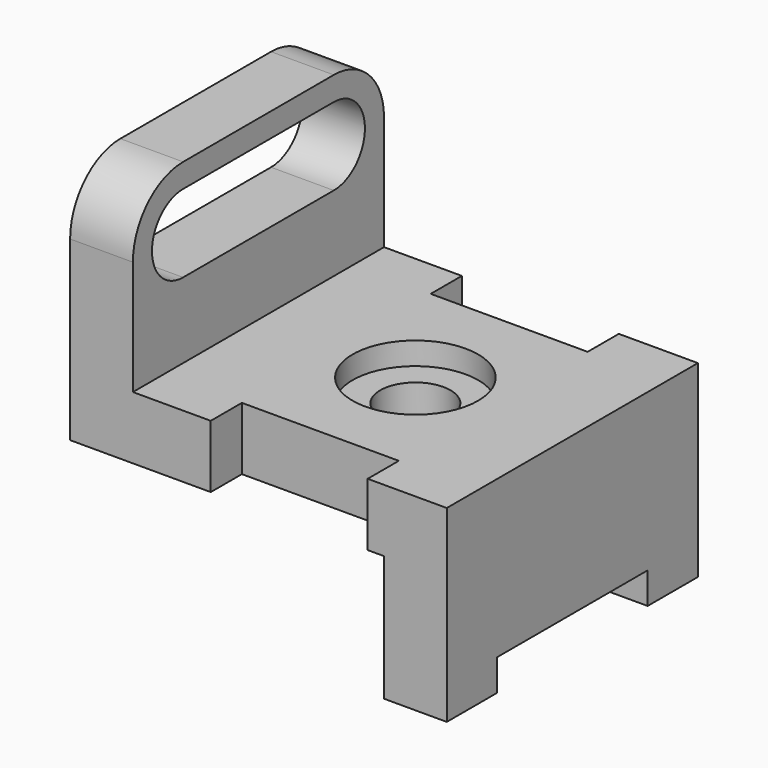
from build123d import *

# Parameters (mm, degrees)
F0_W      = 31.75
F0_H      = 12.7
F0_W_2    = 15.748
F1_DEPTH  = 63.5
F2_DEPTH  = 7.874
F3_START  = -55.626
F3_DEPTH  = 7.874
F4_W      = 38.1
F4_H      = 6.35
F5_DEPTH  = 25.4
F6_R      = 12.7
F6_R_2    = 7.112
F7_DEPTH  = 4.572
F8_DEPTH  = 25.4
F10_DEPTH = 25.4
F11_DEPTH = 25.4


with BuildPart() as f1:
    # F0 (on Front) → F1 (new body)
    with BuildSketch(Plane.XZ):
        Polygon((-12.7, 0), (0, 0), (0, 38.1), (-16.002, 38.1), (-16.002, 25.4), (-12.7, 25.4), align=None)
        with Locations((-31.877, 31.75)):
            Rectangle(F0_W, F0_H)
        with Locations((-55.626, 31.75)):
            Rectangle(F0_W_2, F0_H)
        Polygon((-63.5, 25.4), (-63.5, 38.1), (-63.5, 73.9337697108), (-76.2, 73.9337697108), (-76.2, 25.4), align=None)
    extrude(amount=-F1_DEPTH)

    # F0 (on Front) → F2 (cut)
    with BuildSketch(Plane.XZ):
        with Locations((-31.877, 31.75)):
            Rectangle(F0_W, F0_H)
    extrude(amount=-F2_DEPTH, mode=Mode.SUBTRACT)

    # F0 (on Front) → F3 (cut)
    with BuildSketch(Plane.XZ.offset(F3_START)):
        with Locations((-31.877, 31.75)):
            Rectangle(F0_W, F0_H)
    extrude(amount=-F3_DEPTH, mode=Mode.SUBTRACT)

    # F4 (on face) → F5 (cut)
    with BuildSketch(Plane.YZ):
        with Locations((31.75, 3.175)):
            Rectangle(F4_W, F4_H)
    extrude(amount=-F5_DEPTH, mode=Mode.SUBTRACT)

    # F6 (on face) → F7 (cut)
    with BuildSketch(Plane.XY.offset(38.1)):
        with Locations((-31.75, 31.75)):
            Circle(F6_R)
        with Locations((-31.75, 31.75)):
            Circle(F6_R_2, mode=Mode.SUBTRACT)
    extrude(amount=-F7_DEPTH, mode=Mode.SUBTRACT)

    # F8 (cut): a face of the model
    f8_faces = [f1.faces().sort_by_distance(p)[0] for p in [
        (-31.75, 31.75, 38.1),
    ]]
    extrude(f8_faces, amount=-F8_DEPTH, mode=Mode.SUBTRACT)

    # F9 (on face) → F10 (cut)
    with BuildSketch(Plane.YZ.offset(-63.5)):
        with BuildLine():
            Line((63.5, 73.9337697108), (50.8, 73.9337697108))
            ThreePointArc((50.8, 73.9337697108), (59.7802561211, 70.2140258318), (63.5, 61.2337697108))
            Line((63.5, 61.2337697108), (63.5, 73.9337697108))
        make_face()
        with BuildLine():
            ThreePointArc((0, 61.2337697108), (3.7197438789, 70.2140258318), (12.7, 73.9337697108))
            Line((12.7, 73.9337697108), (0, 73.9337697108))
            Line((0, 73.9337697108), (0, 61.2337697108))
        make_face()
    extrude(amount=-F10_DEPTH, mode=Mode.SUBTRACT)

    # F9 (on face) → F11 (cut)
    with BuildSketch(Plane.YZ.offset(-63.5)):
        with BuildLine():
            Line((50.8, 69.1077697108), (12.7, 69.1077697108))
            ThreePointArc((12.7, 69.1077697108), (4.826, 61.2337697108), (12.7, 53.3597697108))
            Line((12.7, 53.3597697108), (50.8, 53.3597697108))
            ThreePointArc((50.8, 53.3597697108), (58.674, 61.2337697108), (50.8, 69.1077697108))
        make_face()
    extrude(amount=-F11_DEPTH, mode=Mode.SUBTRACT)


solid = f1.part
